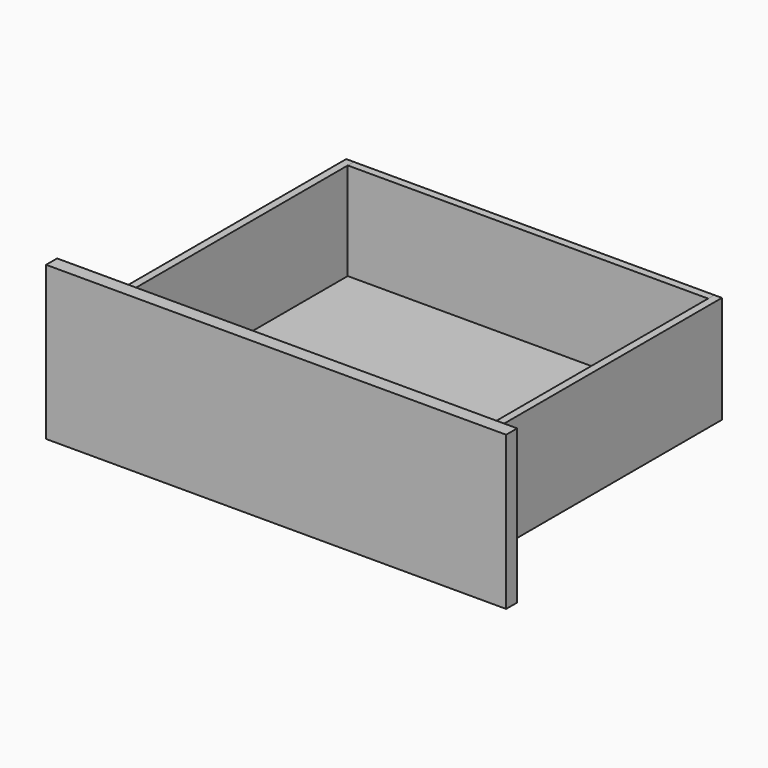
from build123d import *

# Parameters (mm, degrees)
BOX_W        = 474
BOX_H        = 394
BOX_DEPTH    = 3
BOX001_W     = 10
BOX001_H     = 400
BOX001_DEPTH = 140
BOX002_W     = 10
BOX002_H     = 400
BOX002_DEPTH = 140
BOX003_W     = 470
BOX003_H     = 10
BOX003_DEPTH = 140
BOX004_W     = 600
BOX004_H     = 18
BOX004_DEPTH = 200


with BuildPart() as bottom:
    # Box → Box (new body)
    with BuildSketch(Plane(origin=(0, -2, 10), x_dir=(1, 0, 0), z_dir=(0, 0, 1))):
        with Locations((237, 197)):
            Rectangle(BOX_W, BOX_H)
    extrude(amount=BOX_DEPTH)


with BuildPart() as left:
    # Box001 → Box001 (new body)
    with BuildSketch(Plane(origin=(-8, 0, 0), x_dir=(1, 0, 0), z_dir=(0, 0, 1))):
        with Locations((5, 200)):
            Rectangle(BOX001_W, BOX001_H)
    extrude(amount=BOX001_DEPTH)


with BuildPart() as right:
    # Box002 → Box002 (new body)
    with BuildSketch(Plane(origin=(472, 0, 0), x_dir=(1, 0, 0), z_dir=(0, 0, 1))):
        with Locations((5, 200)):
            Rectangle(BOX002_W, BOX002_H)
    extrude(amount=BOX002_DEPTH)


with BuildPart() as back:
    # Box003 → Box003 (new body)
    with BuildSketch(Plane(origin=(2, 390, 0), x_dir=(1, 0, 0), z_dir=(0, 0, 1))):
        with Locations((235, 5)):
            Rectangle(BOX003_W, BOX003_H)
    extrude(amount=BOX003_DEPTH)


with BuildPart() as front:
    # Box004 → Box004 (new body)
    with BuildSketch(Plane(origin=(-65, -18, -30), x_dir=(1, 0, 0), z_dir=(0, 0, 1))):
        with Locations((300, 9)):
            Rectangle(BOX004_W, BOX004_H)
    extrude(amount=BOX004_DEPTH)


solid = Compound([bottom.part, left.part, right.part, back.part, front.part])
